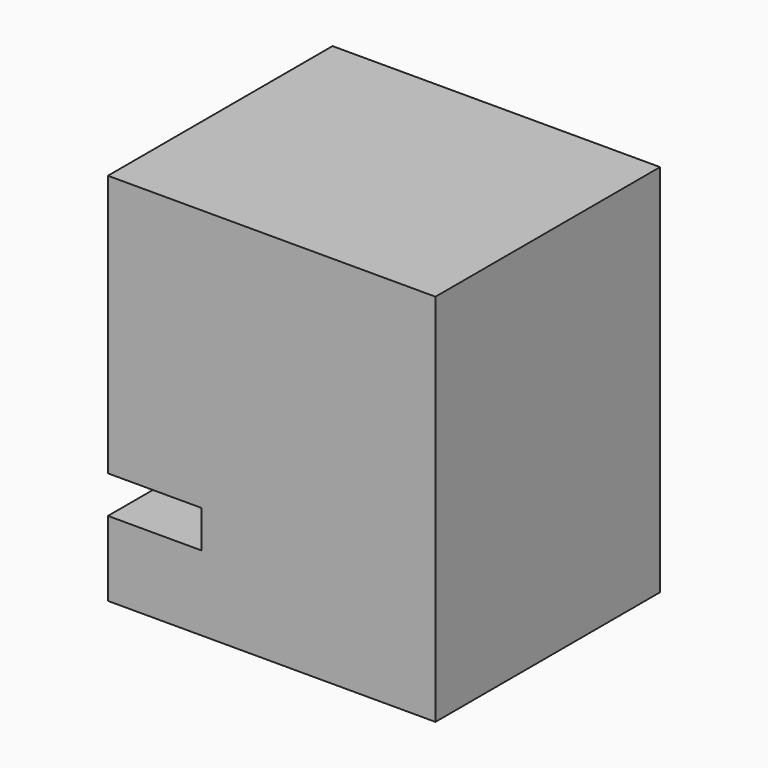
from build123d import *

# Parameters (mm, degrees)
F0_W     = 35
F0_H     = 30
F1_DEPTH = 20
F2_W     = 10
F2_H     = 4
F3_DEPTH = 40
F4_R     = 1
F5_DEPTH = 25
F6_W     = 1.9774927944
F6_H     = 23.6601198859
F7_DEPTH = 20


with BuildPart() as f1:
    # F0 (on Top) → F1 (new body)
    with BuildSketch(Plane.XY):
        with Locations((-5.7433683425, -12.3615624963)):
            Rectangle(F0_W, F0_H)
    extrude(amount=F1_DEPTH)

    # F2 (on face) → F3 (cut)
    with BuildSketch(Plane.XZ.offset(27.3615624963)):
        with Locations((-18.2433683425, 10)):
            Rectangle(F2_W, F2_H)
    extrude(amount=-F3_DEPTH, mode=Mode.SUBTRACT)

    # F4 (on face) → F5 (cut)
    with BuildSketch(Plane.XY.offset(20)):
        with Locations((-18.2433683425, 3.8932797033)):
            Circle(F4_R)
        with Locations((-18.2433683425, -16.9682204723)):
            Circle(F4_R)
    extrude(amount=-F5_DEPTH, mode=Mode.SUBTRACT)

    # F6 (on face) → F7 (join)
    with BuildSketch(Plane.XY.offset(20)):
        with Locations((-22.2546219453, -15.5315025534)):
            Rectangle(F6_W, F6_H)
        Polygon((-23.2433683425, -3.7014426105), (-21.2658755481, -3.7014426105), (-21.2658755481, -27.3615624963), (11.7566316575, -27.3615624963), (11.7566316575, 2.6384375037), (-23.2433683425, 2.6384375037), align=None)
    extrude(amount=F7_DEPTH)


solid = f1.part
